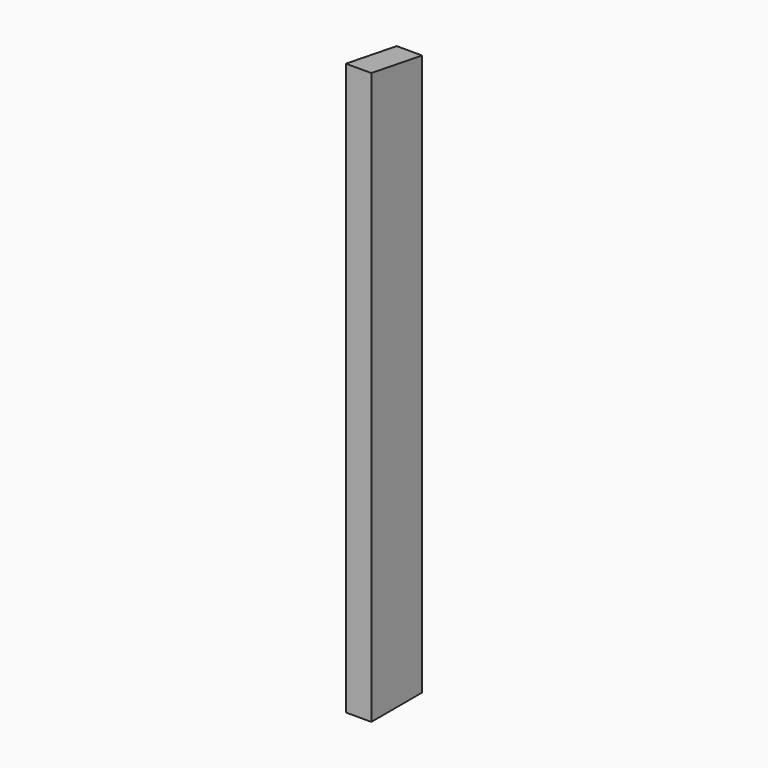
from build123d import *

# Parameters (mm, degrees)
F0_W     = 20
F0_H     = 450
F1_DEPTH = 50
F3_DEPTH = 25


with BuildPart() as f1:
    # F0 (on Front) → F1 (new body)
    with BuildSketch(Plane.XZ):
        with Locations((-10, 225)):
            Rectangle(F0_W, F0_H)
    extrude(amount=F1_DEPTH)

    # F2 (on face) → F3 (cut)
    with BuildSketch(Plane.YZ):
        Polygon((0, 450), (-50, 450), (0, 441.876829), align=None)
    extrude(amount=-F3_DEPTH, mode=Mode.SUBTRACT)


solid = f1.part
